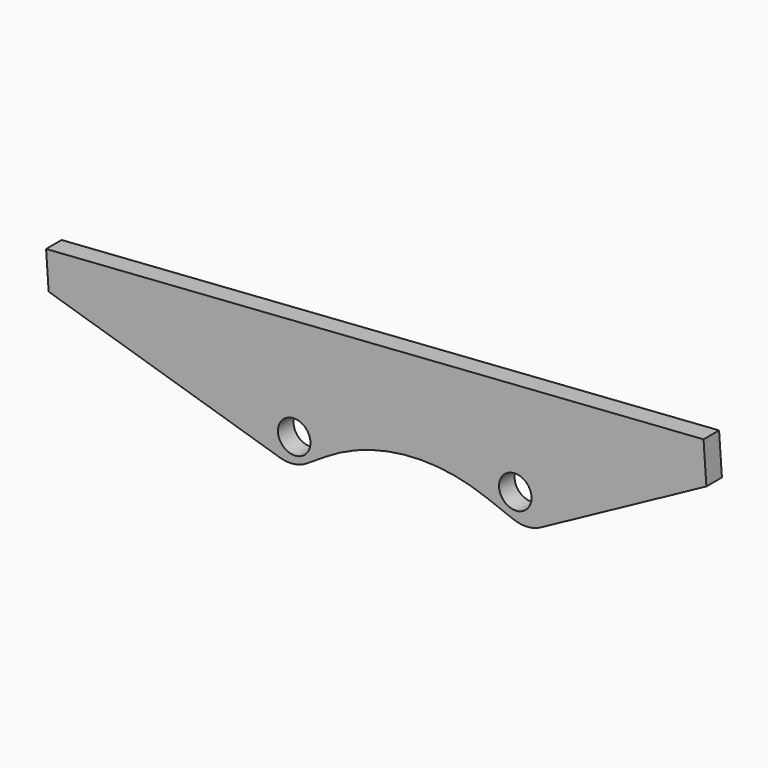
from build123d import *

# Parameters (mm, degrees)
F0_R     = 1.5875
F1_DEPTH = 1.89738


with BuildPart() as f1:
    # F0 (on Front) → F1 (new body)
    with BuildSketch(Plane.XZ):
        with BuildLine():
            Line((-20.351054, 8.000667), (-18.490979, 9.18582))
            ThreePointArc((-18.490979, 9.18582), (-22.241526, 12.983685), (-24.150696, 7.999164))
            Line((-24.150696, 7.999164), (-22.987415, 7.642677))
            ThreePointArc((-22.987415, 7.642677), (-21.629928, 7.532207), (-20.351054, 8.000667))
        make_face()
        with Locations((-21.59, 9.876253)):
            Circle(F0_R, mode=Mode.SUBTRACT)
        with BuildLine():
            ThreePointArc((2.326063, 10.002341), (0.471386, 15.303185), (-2.858094, 10.780649))
            Line((-2.858094, 10.780649), (-0.149405, 9.748828))
            ThreePointArc((-0.149405, 9.748828), (0.964014, 9.540893), (2.079573, 9.737028))
            Line((2.079573, 9.737028), (2.326063, 10.002341))
        make_face()
        with Locations((0, 12.163373)):
            Circle(F0_R, mode=Mode.SUBTRACT)
        with BuildLine():
            ThreePointArc((-24.150696, 7.999164), (-22.241526, 12.983685), (-18.490979, 9.18582))
            ThreePointArc((-18.490979, 9.18582), (-10.863613, 11.836609), (-2.858094, 10.780649))
            ThreePointArc((-2.858094, 10.780649), (0.471386, 15.303185), (2.326063, 10.002341))
            Line((2.326063, 10.002341), (2.079573, 9.737028))
            ThreePointArc((2.079573, 9.737028), (2.291069, 9.823811), (2.495772, 9.925588))
            Line((2.495772, 9.925588), (18.666574, 18.705397))
            Line((18.666574, 18.705397), (18.388231, 22.667299))
            Line((18.388231, 22.667299), (-45.825737, 18.155959))
            Line((-45.825737, 18.155959), (-45.573395, 14.564142))
            Line((-45.573395, 14.564142), (-24.150696, 7.999164))
        make_face()
    extrude(amount=F1_DEPTH)


solid = f1.part
